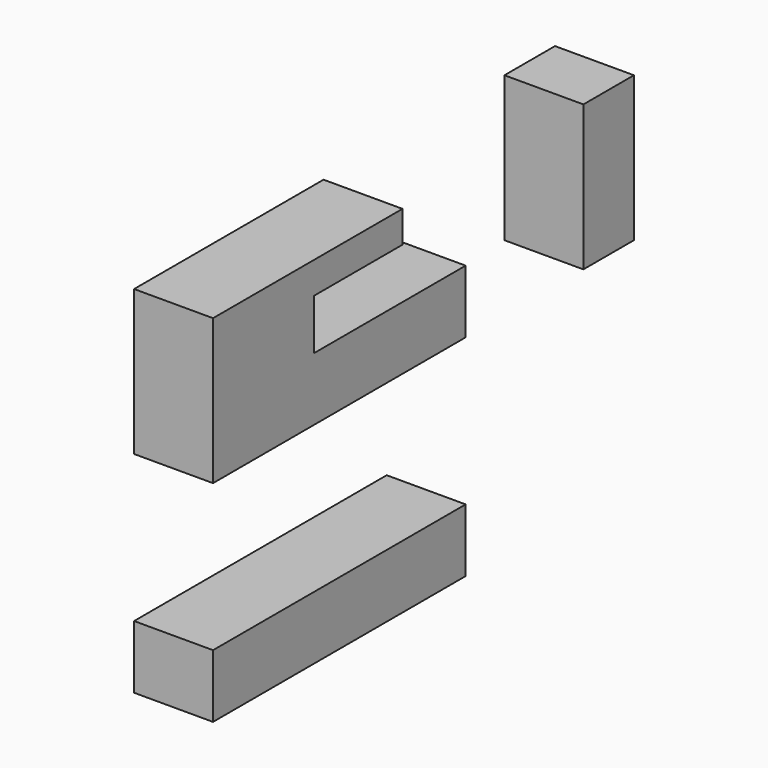
from build123d import *

# Parameters (mm, degrees)
F0_W     = 20
F0_H     = 46
F1_DEPTH = 25


with BuildPart() as f1:
    # F0 (on Right) → F1 (new body)
    with BuildSketch(Plane.YZ):
        Polygon((-554.145853, 98.57037), (-554.145853, 52.57037), (-454.145853, 52.57037), (-454.145853, 72.57037), (-514.145853, 72.57037), (-514.145853, 88.57037), (-479.145853, 88.57037), (-479.145853, 98.57037), align=None)
        Polygon((-514.145853, 6.008581), (-554.145853, 6.008581), (-554.145853, -13.991419), (-479.145853, -13.991419), (-479.145853, -1.491419), (-514.145853, -1.491419), align=None)
        Polygon((-454.145853, 6.008581), (-514.145853, 6.008581), (-514.145853, -1.491419), (-479.145853, -1.491419), (-479.145853, -13.991419), (-454.145853, -13.991419), align=None)
        with Locations((-397.528996, 75.57037)):
            Rectangle(F0_W, F0_H)
    extrude(amount=F1_DEPTH)


solid = f1.part
